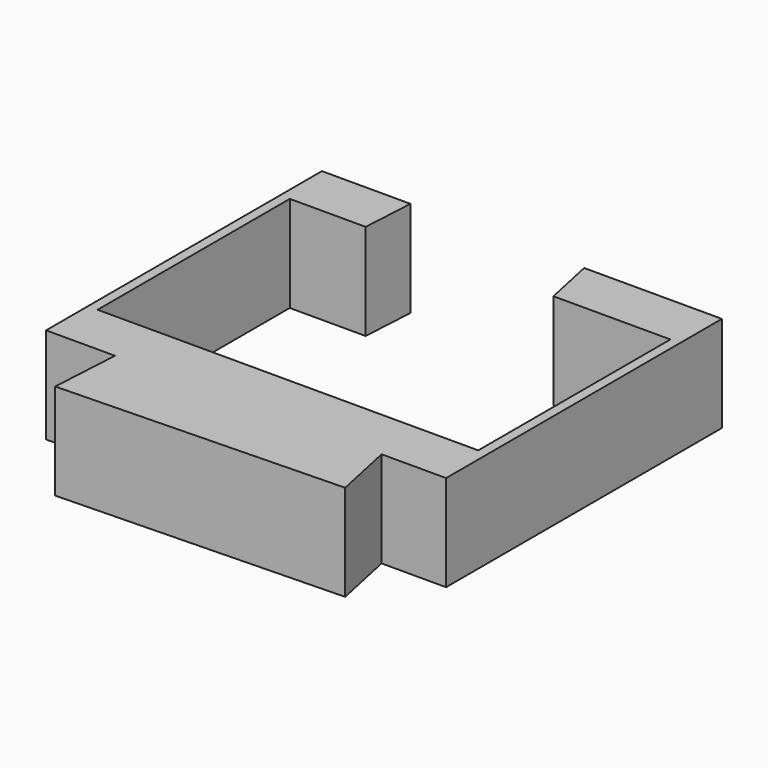
from build123d import *

# Parameters (mm, degrees)
F1_DEPTH = 25.4


with BuildPart() as f1:
    # F0 (on Top) → F1 (new body)
    with BuildSketch(Plane.XY):
        Polygon((19.388023, 31.747971), (50.310291, 31.747971), (50.310291, -31.747971), (-50.310291, -31.747971), (-50.310291, 31.747971), (-30.250478, 31.747971), (-29.461272, 45.573696), (-52.870609, 45.573696), (-52.870609, -45.573696), (-34.664188, -45.573696), (-35.716463, -64.008005), (39.300911, -61.959743), (35.818876, -45.573696), (52.870609, -45.573696), (52.870609, 45.573696), (16.450056, 45.573696), align=None)
    extrude(amount=F1_DEPTH)


solid = f1.part
